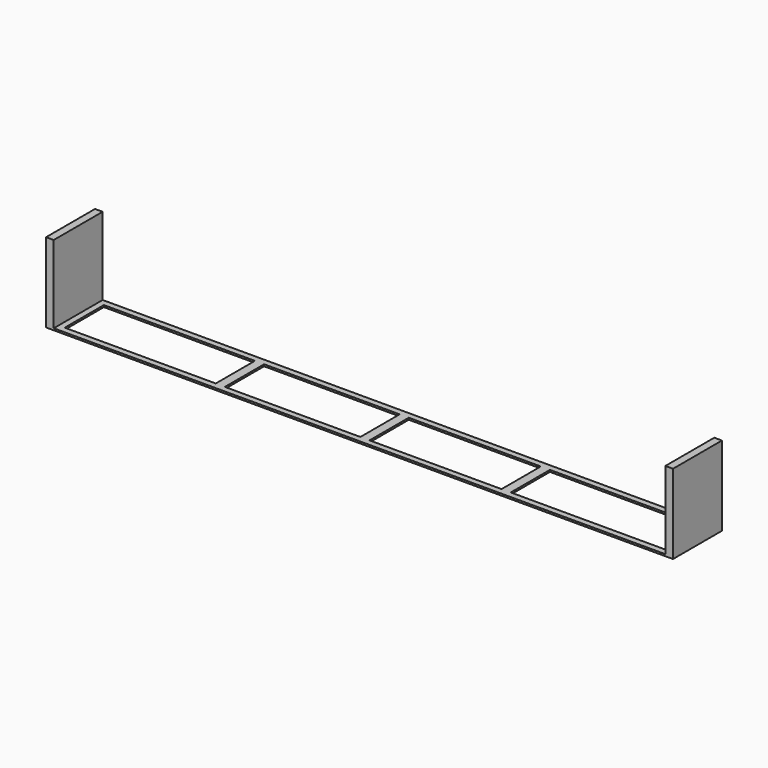
from build123d import *

# Parameters (mm, degrees)
F0_W     = 200
F0_H     = 20
F1_DEPTH = 0.6
F3_W     = 2.5
F3_H     = 20
F4_DEPTH = 26
F2_W     = 49.387012
F2_H     = 16
F2_W_2   = 44.316895
F2_H_2   = 16.031951
F2_W_3   = 43.155649
F2_W_4   = 50.140444
F5_DEPTH = 25


with BuildPart() as f1:
    # F0 (on Top) → F1 (new body)
    with BuildSketch(Plane.XY):
        with Locations((47.677944, -10)):
            Rectangle(F0_W, F0_H)
    extrude(amount=F1_DEPTH)

    # F3 (on Top) → F4 (join)
    with BuildSketch(Plane.XY):
        with Locations((-53.572056, -10)):
            Rectangle(F3_W, F3_H)
        with Locations((148.927944, -10)):
            Rectangle(F3_W, F3_H)
    extrude(amount=F4_DEPTH)

    # F2 (on face) → F5 (cut)
    with BuildSketch(Plane.XY.offset(0.6)):
        with Locations((-25.62855, -10)):
            Rectangle(F2_W, F2_H)
        with Locations((24.223403, -10.015975)):
            Rectangle(F2_W_2, F2_H_2)
        with Locations((70.959676, -10.015975)):
            Rectangle(F2_W_3, F2_H_2)
        with Locations((120.607722, -10)):
            Rectangle(F2_W_4, F2_H)
    extrude(amount=-F5_DEPTH, mode=Mode.SUBTRACT)


solid = f1.part
